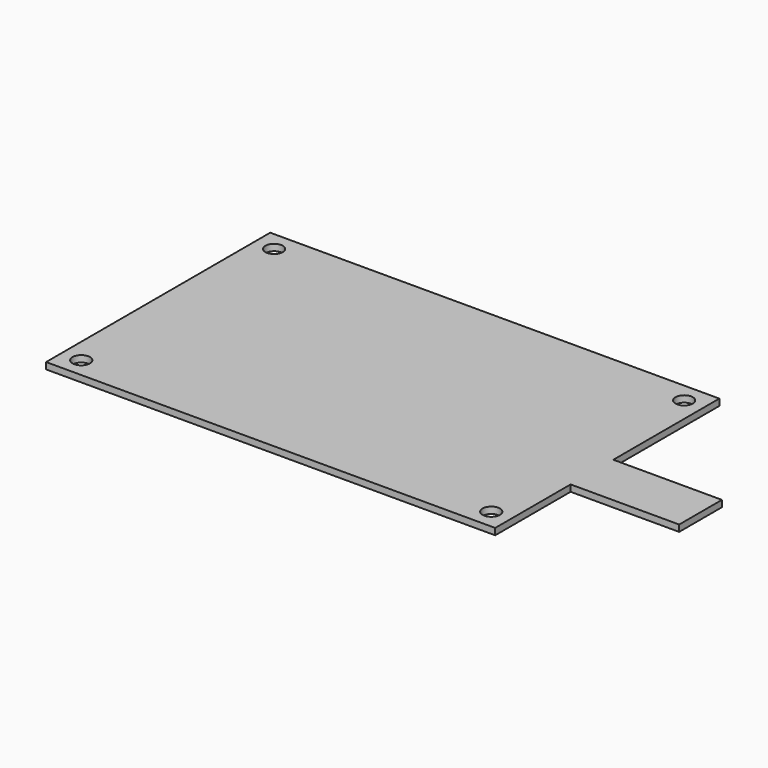
from build123d import *

# Parameters (mm, degrees)
SKETCH_R  = 1
PAD_DEPTH = 0.75


with BuildPart() as part:
    # Sketch → Pad (new body)
    with BuildSketch(Plane.XY):
        Polygon((-25.85, 16.125), (25.85, 16.125), (25.85, 0.875), (38.35, 0.875), (38.35, -5.275), (25.85, -5.275), (25.85, -16.125), (-25.85, -16.125), align=None)
        with Locations((-23.6, 13.875)):
            Circle(SKETCH_R, mode=Mode.SUBTRACT)
        with Locations((23.6, -13.875)):
            Circle(SKETCH_R, mode=Mode.SUBTRACT)
        with Locations((23.6, 13.875)):
            Circle(SKETCH_R, mode=Mode.SUBTRACT)
        with Locations((-23.6, -13.875)):
            Circle(SKETCH_R, mode=Mode.SUBTRACT)
    extrude(amount=PAD_DEPTH)


solid = part.part
